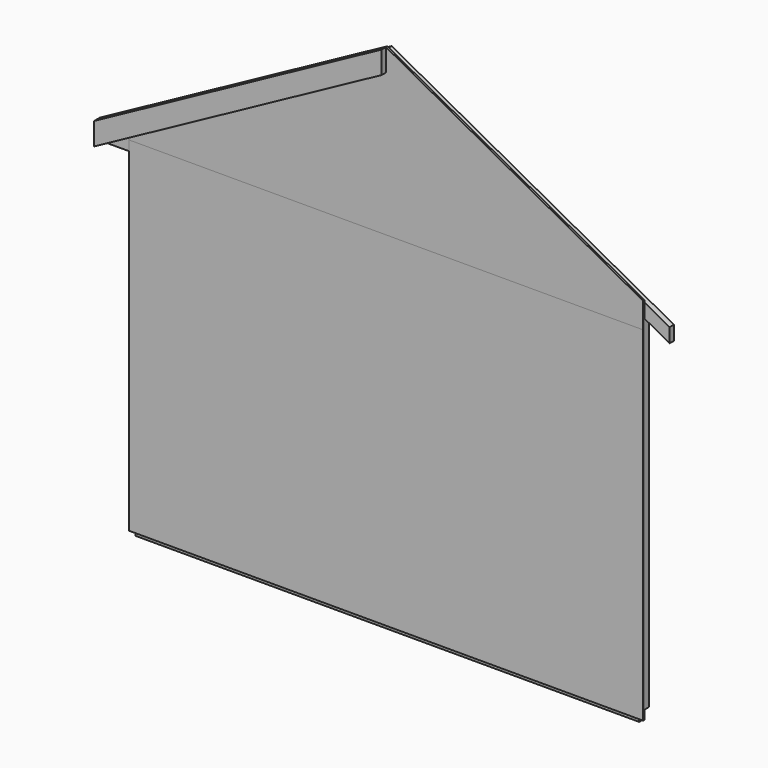
from build123d import *

# Parameters (mm, degrees)
F1_DEPTH  = 38.1
F2_W      = 3644.9
F2_H      = 2438.4
F3_DEPTH  = 12.7
F5_DEPTH  = 12.7
F7_DEPTH  = 38.1
F8_W      = 19.05
F8_H      = 38.1
F9_DEPTH  = 38.1
F11_DEPTH = 38.1
F13_DEPTH = 12.7


with BuildPart() as f1:
    # F0 (on Front) → F1 (new body)
    with BuildSketch(Plane.XZ):
        Polygon((-2000.25, 2432.05), (-1822.45, 2528.733554711), (0, 3519.7399904992), (1822.45, 2528.733554711), (2000.25, 2432.05), (2000.25, 2533.2435642118), (0, 3620.933554711), (-2000.25, 2533.2435642118), align=None)
    extrude(amount=F1_DEPTH)


with BuildPart() as f1b:
    # F0 (on Front) → F1, piece 2 (new body)
    with BuildSketch(Plane.XZ):
        Polygon((1733.55, 88.9), (1784.35, 88.9), (1822.45, 88.9), (1822.45, 2528.733554711), (1733.55, 2528.733554711), align=None)
        Polygon((-1822.45, 88.9), (-1784.35, 88.9), (-1733.55, 88.9), (-1733.55, 2528.733554711), (-1822.45, 2528.733554711), align=None)
        Polygon((-1784.35, 88.9), (-1784.35, 0), (1784.35, 0), (1784.35, 88.9), (1733.55, 88.9), (-1733.55, 88.9), align=None)
    extrude(amount=F1_DEPTH)

    # F8 (on face) → F9 (join)
    with BuildSketch(Plane.XZ.offset(38.1)):
        with Locations((-1831.975, 2412.5935642118)):
            Rectangle(F8_W, F8_H)
    extrude(amount=-F9_DEPTH)


with BuildPart() as f3:
    # F2 (on face) → F3 (new body)
    with BuildSketch(Plane.XZ.offset(38.1)):
        with Locations((0, 1244.6)):
            Rectangle(F2_W, F2_H)
    extrude(amount=F3_DEPTH)


with BuildPart() as f5:
    # F4 (on face) → F5 (new body)
    with BuildSketch(Plane.XZ.offset(38.1)):
        Polygon((-1822.45, 2644.3833423817), (-1822.45, 2463.8), (1822.45, 2463.8), (1822.45, 2644.3833423817), (0, 3635.3897781699), align=None)
    extrude(amount=F5_DEPTH)


with BuildPart() as f7:
    # F6 (on face) → F7 (new body)
    with BuildSketch(Plane.XZ.offset(38.1)):
        Polygon((-2000.25, 2393.5435642118), (-2000.25, 2533.2435642118), (-2038.35, 2512.5256596309), (-2038.35, 2393.5435642118), align=None)
    extrude(amount=-F7_DEPTH)


with BuildPart() as f11:
    # F10 (on face) → F11 (new body)
    with BuildSketch(Plane.XZ.offset(50.8)):
        Polygon((0, 3476.3713201227), (0, 3635.3897781699), (-2038.35, 2526.9818830897), (-2038.35, 2367.9634250426), align=None)
    extrude(amount=F11_DEPTH)


with BuildPart() as f13:
    # F12 (on face) → F13 (new body)
    with BuildSketch(Plane.XZ.offset(38.1)):
        Polygon((-1822.45, 2644.3833423817), (-2038.35, 2526.9818830897), (-2038.35, 2393.5435642118), (-1822.45, 2393.5435642118), align=None)
    extrude(amount=F13_DEPTH)


solid = Compound([f1.part, f1b.part, f3.part, f5.part, f7.part, f11.part, f13.part])
